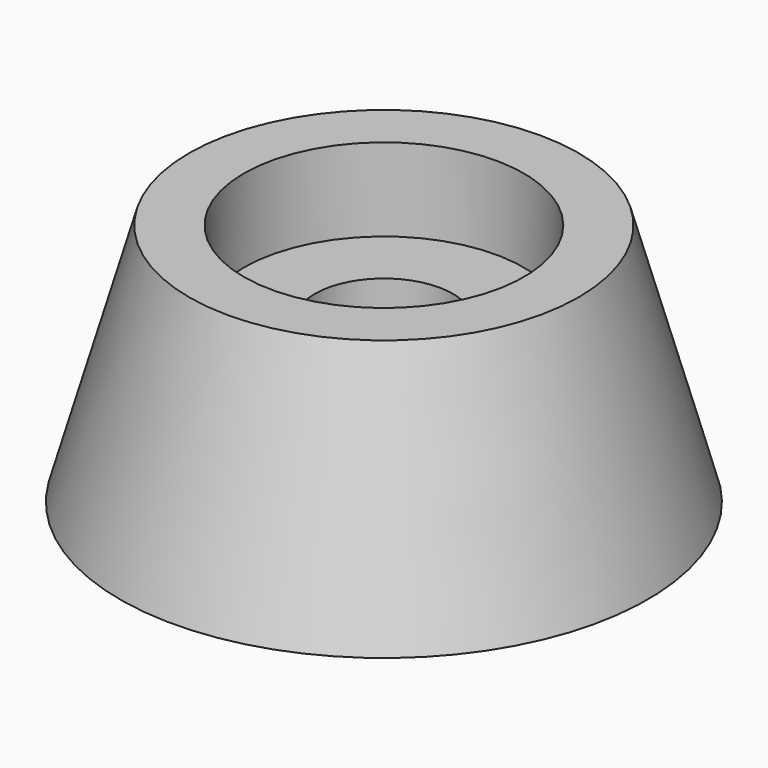
from build123d import *


with BuildPart() as part:
    # Sketch001 → Revolution (revolve)
    with BuildSketch(Plane.XZ):
        Polygon((-8.625, 9.9), (-4.25, 9.9), (-4.25, 0), (-16.25, 0), (-12, 15), (-8.625, 15), align=None)
    revolve(axis=Axis((0, 0, 0), (0, 0, 1)))


solid = part.part
